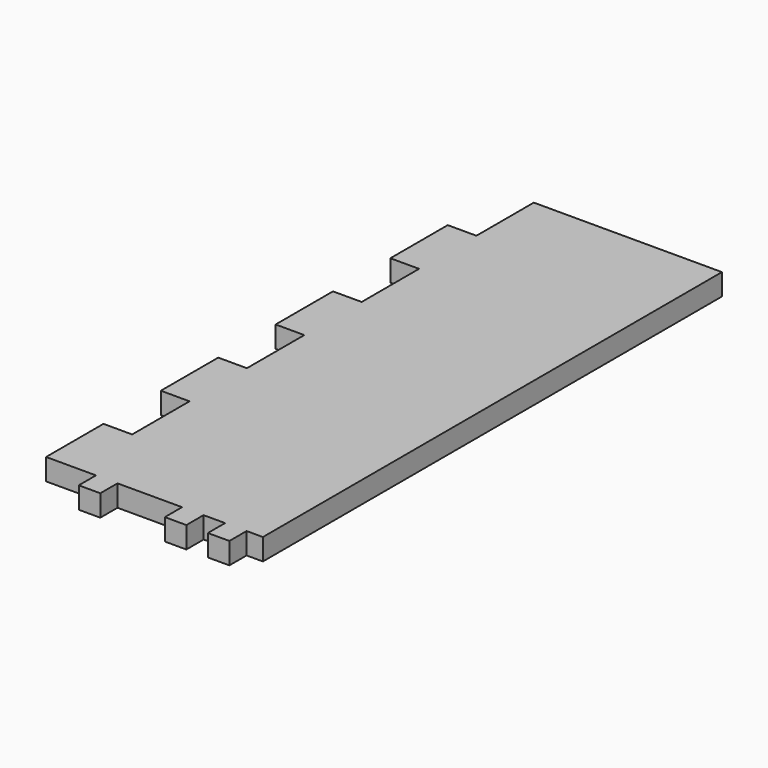
from build123d import *

# Parameters (mm, degrees)
F0_W     = 3
F0_H     = 3
F0_H_2   = 10
F1_DEPTH = 3
F2_W     = 1
F2_H     = 10
F3_DEPTH = 25


with BuildPart() as f1:
    # F0 (on Top) → F1 (new body)
    with BuildSketch(Plane.XY):
        with Locations((-8.157295, -41.5)):
            Rectangle(F0_W, F0_H)
        with Locations((3.842705, -41.5)):
            Rectangle(F0_W, F0_H)
        with Locations((9.842705, -41.5)):
            Rectangle(F0_W, F0_H)
        with Locations((-15.113705, -35)):
            Rectangle(F0_W, F0_H_2)
        with Locations((-15.113705, 25)):
            Rectangle(F0_W, F0_H_2)
        with Locations((-15.113705, 5)):
            Rectangle(F0_W, F0_H_2)
        with Locations((-15.113705, -15)):
            Rectangle(F0_W, F0_H_2)
        Polygon((13.613705, 40), (-13.613705, 40), (-13.613705, 30), (-13.613705, 20), (-13.613705, 10), (-13.613705, 0), (-13.613705, -10), (-13.613705, -20), (-13.613705, -30), (-13.613705, -40), (-9.657295, -40), (-6.657295, -40), (2.342705, -40), (5.342705, -40), (8.342705, -40), (11.342705, -40), (13.613705, -40), align=None)
    extrude(amount=F1_DEPTH)

    # F2 (on face) → F3 (cut)
    with BuildSketch(Plane(origin=(0, 0, 0), x_dir=(1, 0, 0), z_dir=(0, 0, -1))):
        with Locations((-13.113705, -35)):
            Rectangle(F2_W, F2_H)
        with Locations((-13.113705, -15)):
            Rectangle(F2_W, F2_H)
        with Locations((-13.113705, 5)):
            Rectangle(F2_W, F2_H)
        with Locations((-13.113705, 25)):
            Rectangle(F2_W, F2_H)
    extrude(amount=-F3_DEPTH, mode=Mode.SUBTRACT)


solid = f1.part
